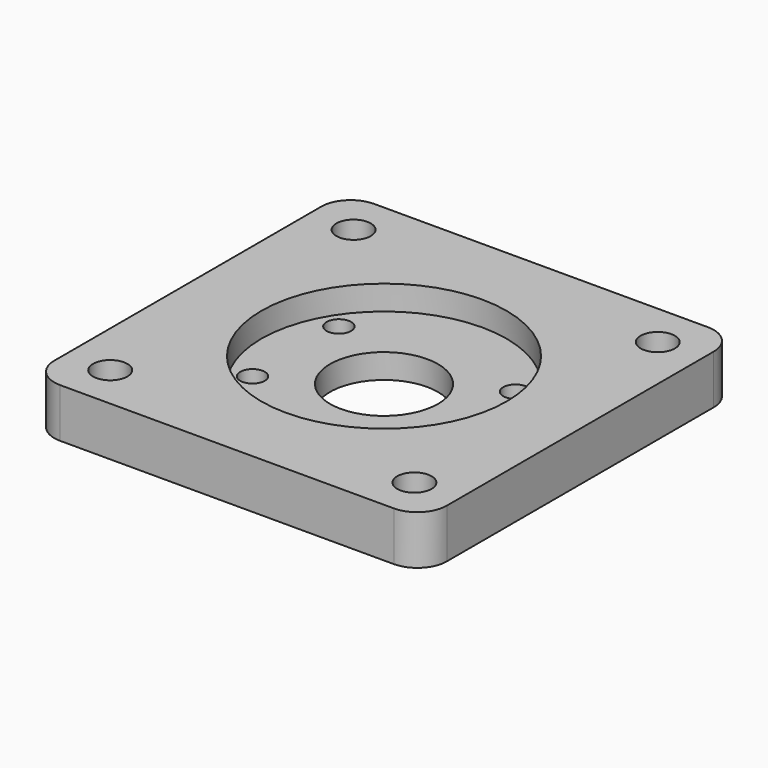
from build123d import *

# Parameters (mm, degrees)
F0_W     = 40
F0_H     = 40
F0_R     = 1.75
F0_R_2   = 1.25
F0_R_3   = 5.5
F1_DEPTH = 5
F2_R     = 12.5
F3_DEPTH = 2.5
F4_R     = 3


with BuildPart() as f1:
    # F0 (on Top) → F1 (new body)
    with BuildSketch(Plane.XY):
        Rectangle(F0_W, F0_H)
        with Locations((-15.5, -15.5)):
            Circle(F0_R, mode=Mode.SUBTRACT)
        with Locations((-9, -5.5)):
            Circle(F0_R_2, mode=Mode.SUBTRACT)
        with Locations((15.5, -15.5)):
            Circle(F0_R, mode=Mode.SUBTRACT)
        with Locations((9, -5.5)):
            Circle(F0_R_2, mode=Mode.SUBTRACT)
        with Locations((-9, 5.5)):
            Circle(F0_R_2, mode=Mode.SUBTRACT)
        with Locations((-15.5, 15.5)):
            Circle(F0_R, mode=Mode.SUBTRACT)
        Circle(F0_R_3, mode=Mode.SUBTRACT)
        with Locations((9, 5.5)):
            Circle(F0_R_2, mode=Mode.SUBTRACT)
        with Locations((15.5, 15.5)):
            Circle(F0_R, mode=Mode.SUBTRACT)
    extrude(amount=F1_DEPTH)

    # F2 (on face) → F3 (cut)
    with BuildSketch(Plane.XY.offset(5)):
        Circle(F2_R)
    extrude(amount=-F3_DEPTH, mode=Mode.SUBTRACT)

    # F4
    f4_edges = [f1.edges().sort_by_distance(p)[0] for p in [
        (-20, -20, 2.5),
        (20, -20, 2.5),
        (20, 20, 2.5),
        (-20, 20, 2.5),
    ]]
    fillet(f4_edges, radius=F4_R)


solid = f1.part
